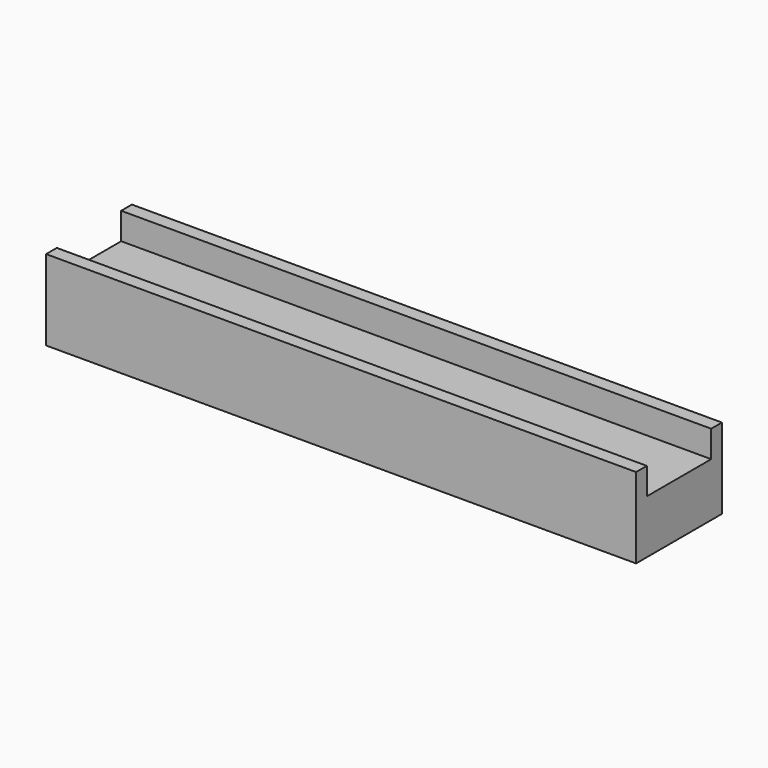
from build123d import *

# Parameters (mm, degrees)
F0_W     = 685.8
F0_H     = 25.4
F1_DEPTH = 50.8
F2_W     = 685.8
F2_H     = 6.35
F3_DEPTH = 12.7
F4_R     = 12.7
F5_DEPTH = 6.35
F6_R     = 12.7
F7_DEPTH = 6.35
F8_W     = 406.4
F8_H     = 38.1
F9_DEPTH = 50.8


with BuildPart() as f1:
    # F0 (on Front) → F1 (new body)
    with BuildSketch(Plane.XZ):
        with Locations((342.9, 12.7)):
            Rectangle(F0_W, F0_H)
    extrude(amount=F1_DEPTH)

    # F2 (on face) → F3 (join)
    with BuildSketch(Plane.XY.offset(25.4)):
        with Locations((342.9, -47.625)):
            Rectangle(F2_W, F2_H)
        with Locations((342.9, -3.175)):
            Rectangle(F2_W, F2_H)
    extrude(amount=F3_DEPTH)

    # F4 (on face) → F5 (cut)
    with BuildSketch(Plane(origin=(0, 0, 0), x_dir=(1, 0, 0), z_dir=(0, 0, -1))):
        with Locations((342.9, 25.4)):
            Circle(F4_R)
    extrude(amount=-F5_DEPTH, mode=Mode.SUBTRACT)

    # F6 (on face) → F7 (cut)
    with BuildSketch(Plane(origin=(0, 0, 0), x_dir=(1, 0, 0), z_dir=(0, 0, -1))):
        with Locations((25.4, 25.4)):
            Circle(F6_R)
        with Locations((660.4, 25.4)):
            Circle(F6_R)
    extrude(amount=-F7_DEPTH, mode=Mode.SUBTRACT)

    # F8 (on face) → F9 (cut)
    with BuildSketch(Plane.XZ.offset(50.8)):
        with Locations((482.6, 19.05)):
            Rectangle(F8_W, F8_H)
    extrude(amount=-F9_DEPTH, mode=Mode.SUBTRACT)


solid = f1.part
